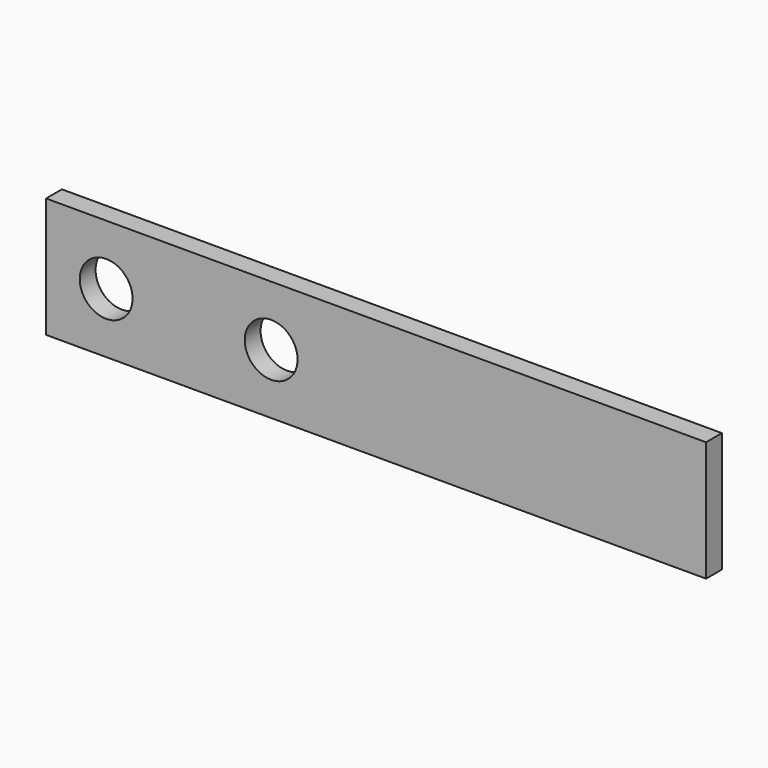
from build123d import *

# Parameters (mm, degrees)
F0_W     = 100
F0_H     = 18.2
F0_R     = 4
F1_DEPTH = 3


with BuildPart() as f1:
    # F0 (on Front) → F1 (new body)
    with BuildSketch(Plane.XZ):
        with Locations((-2.823925, -3.592105)):
            Rectangle(F0_W, F0_H)
        with Locations((-43.723925, -3.592105)):
            Circle(F0_R, mode=Mode.SUBTRACT)
        with Locations((-18.723925, -3.592105)):
            Circle(F0_R, mode=Mode.SUBTRACT)
        with Locations((-2.823925, -3.592105)):
            Rectangle(F0_W, F0_H)
        with Locations((-43.723925, -3.592105)):
            Circle(F0_R, mode=Mode.SUBTRACT)
        with Locations((-18.723925, -3.592105)):
            Circle(F0_R, mode=Mode.SUBTRACT)
    extrude(amount=F1_DEPTH)


solid = f1.part
